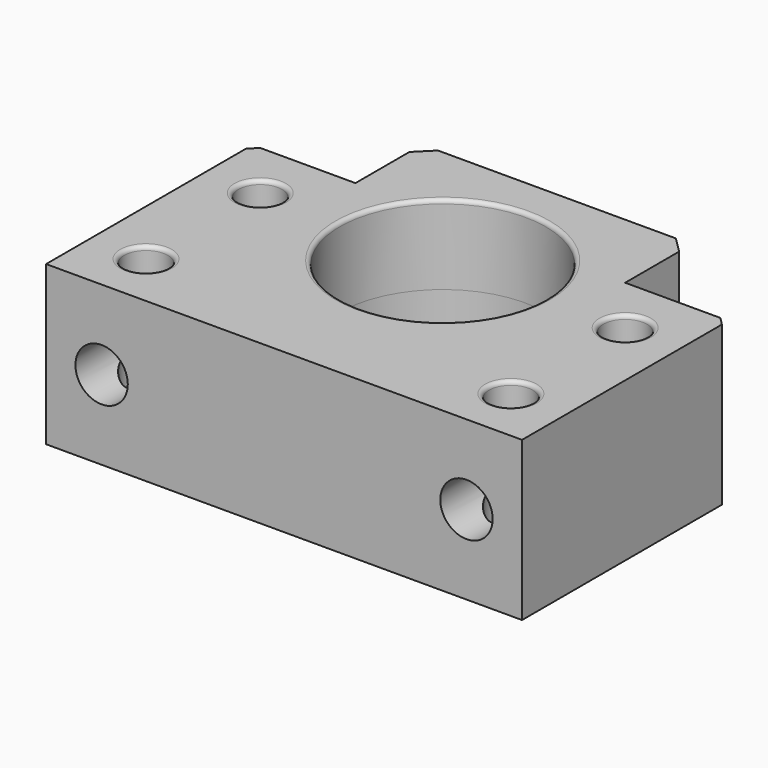
from build123d import *

# Parameters (mm, degrees)
F0_R           = 2.75
F0_R_2         = 13
F1_DEPTH       = 10
F1_DEPTH_BACK  = 10
F2_SIZE        = 1
F3_SIZE        = 2
F4_R           = 0.5
F7_D           = 6.6
F7_CBORE_D     = 10.8
F7_CBORE_DEPTH = 1.5


with BuildPart() as f1:
    # F0 (on Top) → F1 (new body, two sides)
    with BuildSketch(Plane.XY) as f1_sk:
        Polygon((-30, 7.5), (-30, -25), (30, -25), (30, 7.5), (17, 7.5), (17, 18), (-17, 18), (-17, 7.5), align=None)
        with Locations((-23, -18)):
            Circle(F0_R, mode=Mode.SUBTRACT)
        with Locations((23, -18)):
            Circle(F0_R, mode=Mode.SUBTRACT)
        with Locations((-23, 0)):
            Circle(F0_R, mode=Mode.SUBTRACT)
        Circle(F0_R_2, mode=Mode.SUBTRACT)
        with Locations((23, 0)):
            Circle(F0_R, mode=Mode.SUBTRACT)
    extrude(amount=F1_DEPTH)
    extrude(f1_sk.sketch, amount=-F1_DEPTH_BACK)

    # F2
    f2_edges = [f1.edges().sort_by_distance(p)[0] for p in [
        (30, 7.5, 0),
        (-30, 7.5, 0),
    ]]
    chamfer(f2_edges, length=F2_SIZE)

    # F3
    f3_edges = [f1.edges().sort_by_distance(p)[0] for p in [
        (17, 18, 0),
        (-17, 18, 0),
    ]]
    chamfer(f3_edges, length=F3_SIZE)

    # F4
    f4_edges = [f1.edges().sort_by_distance(p)[0] for p in [
        (-25.75, 0, 10),
        (-20.25, 0, 0),
        (-25.75, 0, -10),
        (20.25, 0, 10),
        (25.75, 0, 0),
        (20.25, 0, -10),
        (20.25, -18, 10),
        (25.75, -18, 0),
        (20.25, -18, -10),
        (-25.75, -18, 10),
        (-20.25, -18, 0),
        (-25.75, -18, -10),
        (-13, 0, 10),
        (13, 0, 0),
        (-13, 0, -10),
    ]]
    fillet(f4_edges, radius=F4_R)

    # F7 (through all)
    with Locations(Plane(origin=(0, 7.5, 0), x_dir=(-1, 0, 0), z_dir=(0, 1, 0))):
        with Locations((-23, 0), (23, 0)):
            CounterBoreHole(F7_D / 2, F7_CBORE_D / 2, F7_CBORE_DEPTH)


solid = f1.part
